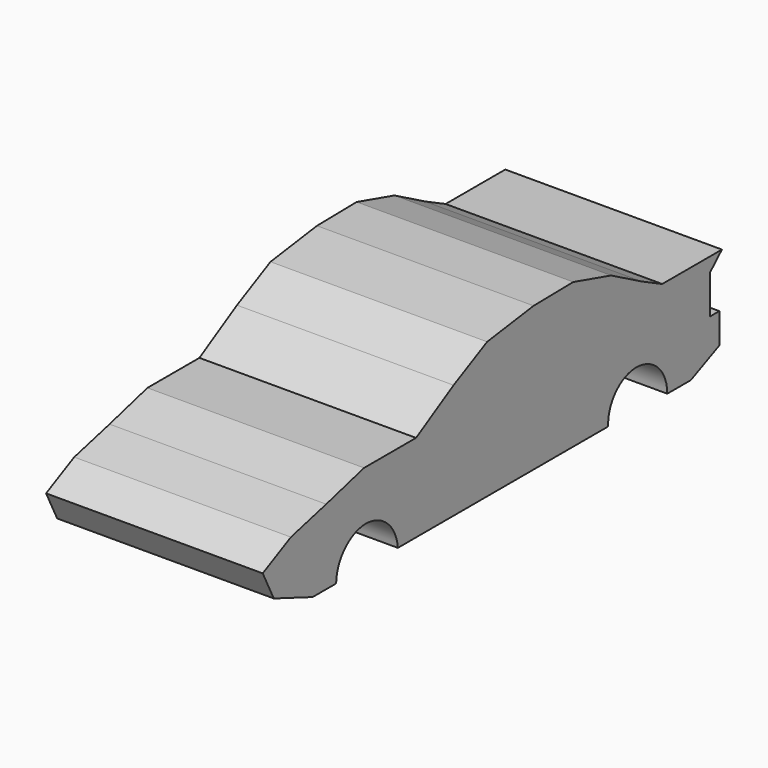
from build123d import *

# Parameters (mm, degrees)
F1_DEPTH = 115


with BuildPart() as f1:
    # F0 (on Right) → F1 (new body)
    with BuildSketch(Plane.YZ):
        with BuildLine():
            Line((-89.63947, 6.738275), (-114.754856, 0))
            Line((-114.754856, 0), (-138.194978, -5.876377))
            Line((-138.194978, -5.876377), (-156.873196, -15.215486))
            Line((-156.873196, -15.215486), (-149.503788, -29.954302))
            Line((-149.503788, -29.954302), (-123.761818, -39.761275))
            Line((-123.761818, -39.761275), (-108.140029, -39.761275))
            ThreePointArc((-108.140029, -39.761275), (-102.198985, -25.605666), (-88.001989, -19.764215))
            ThreePointArc((-88.001989, -19.764215), (-73.834486, -25.845282), (-67.198023, -39.761275))
            Line((-67.198023, -39.761275), (-37.212595, -39.761275))
            Line((-37.212595, -39.761275), (72.381705, -39.761275))
            ThreePointArc((72.381705, -39.761275), (78.034801, -25.038001), (92.89816, -19.764215))
            ThreePointArc((92.89816, -19.764215), (106.193601, -26.50791), (111.596704, -40.402249))
            Line((111.596704, -40.402249), (127.211124, -40.402249))
            Line((127.211124, -40.402249), (146.114811, -31.879209))
            Line((146.114811, -31.879209), (146.114811, -15.81654))
            Line((146.114811, -15.81654), (140.074372, -15.81654))
            Line((140.074372, -15.81654), (140.074372, 4.835445))
            Line((140.074372, 4.835445), (147.833586, 12.251377))
            Line((147.833586, 12.251377), (140.074372, 12.251377))
            Line((140.074372, 12.251377), (108.220726, 12.251377))
            Line((108.220726, 12.251377), (94.54, 18.989645))
            Line((94.54, 18.989645), (74.325174, 30.015916))
            Line((74.325174, 30.015916), (49.209803, 37.162594))
            Line((49.209803, 37.162594), (22.869274, 36.754213))
            Line((22.869274, 36.754213), (-7.963434, 32.466225))
            Line((-7.963434, 32.466225), (-30.220151, 21.235771))
            Line((-30.220151, 21.235771), (-55.131346, 6.738275))
            Line((-55.131346, 6.738275), (-89.63947, 6.738275))
        make_face()
    extrude(amount=F1_DEPTH)


solid = f1.part
